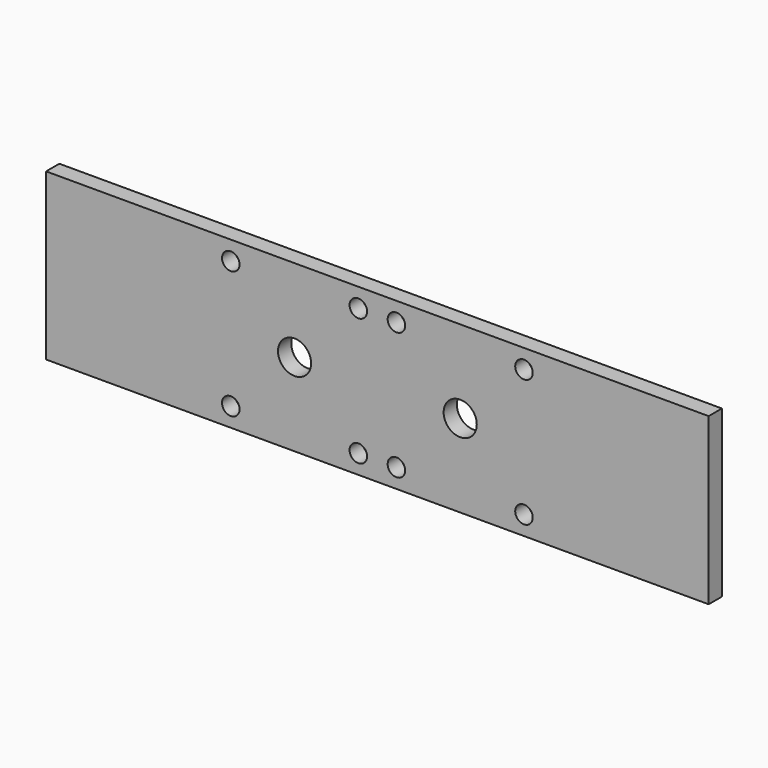
from build123d import *

# Parameters (mm, degrees)
SKETCH_W   = 240
SKETCH_H   = 60
SKETCH_R   = 6
SKETCH_R_2 = 3.175
PAD_DEPTH  = 6


with BuildPart() as part:
    # Sketch → Pad (new body)
    with BuildSketch(Plane.XZ):
        with Locations((120, 30)):
            Rectangle(SKETCH_W, SKETCH_H)
        with Locations((90, 30)):
            Circle(SKETCH_R, mode=Mode.SUBTRACT)
        with Locations((113.1013, 53.1013)):
            Circle(SKETCH_R_2, mode=Mode.SUBTRACT)
        with Locations((66.8987, 53.1013)):
            Circle(SKETCH_R_2, mode=Mode.SUBTRACT)
        with Locations((66.8987, 6.8987)):
            Circle(SKETCH_R_2, mode=Mode.SUBTRACT)
        with Locations((113.1013, 6.8987)):
            Circle(SKETCH_R_2, mode=Mode.SUBTRACT)
        with Locations((150, 30)):
            Circle(SKETCH_R, mode=Mode.SUBTRACT)
        with Locations((173.1013, 53.1013)):
            Circle(SKETCH_R_2, mode=Mode.SUBTRACT)
        with Locations((126.8987, 53.1013)):
            Circle(SKETCH_R_2, mode=Mode.SUBTRACT)
        with Locations((126.8987, 6.8987)):
            Circle(SKETCH_R_2, mode=Mode.SUBTRACT)
        with Locations((173.1013, 6.8987)):
            Circle(SKETCH_R_2, mode=Mode.SUBTRACT)
    extrude(amount=PAD_DEPTH)


solid = part.part
